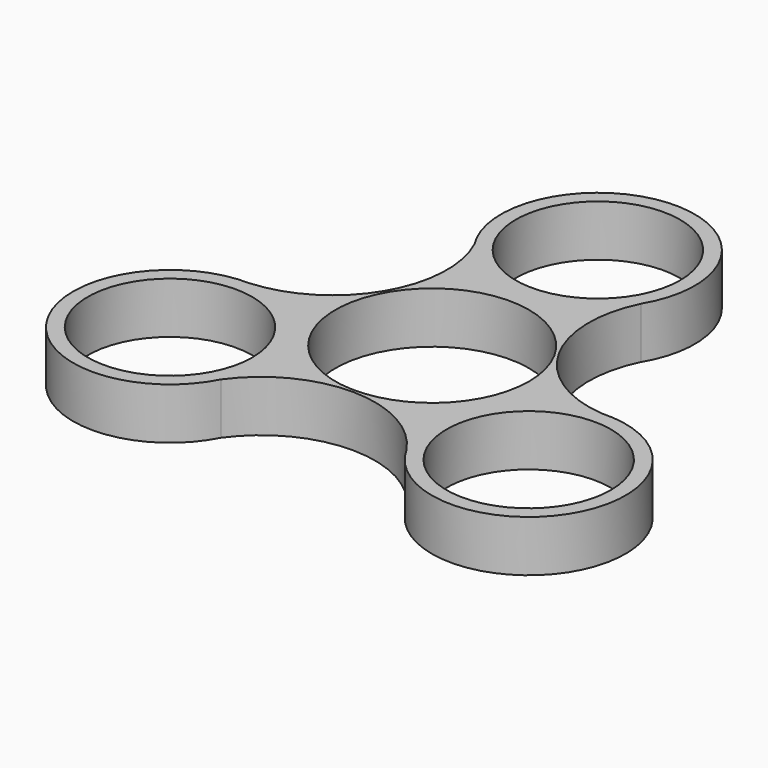
from build123d import *

# Parameters (mm, degrees)
F0_R     = 11.2
F0_R_2   = 13.2
F1_DEPTH = 7


with BuildPart() as f1:
    # F0 (on Top) → F1 (new body)
    with BuildSketch(Plane.XY):
        with BuildLine():
            ThreePointArc((23.78745, -0.927916), (11.678462, 6.964523), (11.307953, 21.413775))
            ThreePointArc((11.307953, 21.413775), (-0.205819, 41.421737), (-11.090126, 21.064494))
            ThreePointArc((-11.090126, 21.064494), (-11.870685, 6.631583), (-24.19885, -0.913913))
            ThreePointArc((-24.19885, -0.913913), (-35.769367, -20.889113), (-12.697324, -20.136578))
            ThreePointArc((-12.697324, -20.136578), (0.192223, -13.596106), (12.890897, -20.499863))
            ThreePointArc((12.890897, -20.499863), (35.975186, -20.532624), (23.78745, -0.927916))
        make_face()
        with Locations((-24.442131, -14.111671)):
            Circle(F0_R, mode=Mode.SUBTRACT)
        with Locations((24.442131, -14.111671)):
            Circle(F0_R, mode=Mode.SUBTRACT)
        Circle(F0_R_2, mode=Mode.SUBTRACT)
        with Locations((0, 28.223341)):
            Circle(F0_R, mode=Mode.SUBTRACT)
    extrude(amount=F1_DEPTH)


solid = f1.part
